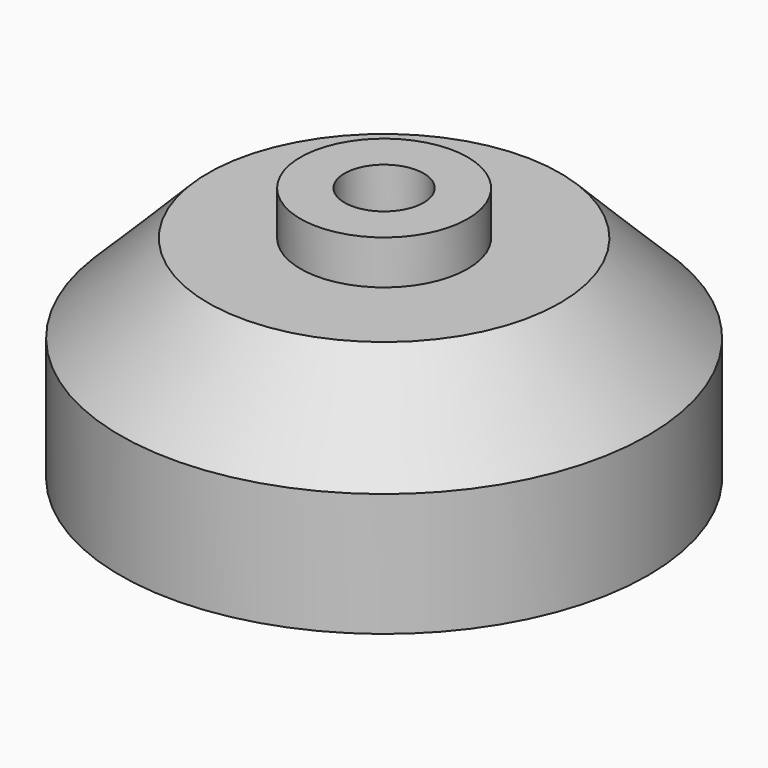
from build123d import *

# Parameters (mm, degrees)
F0_R     = 15
F0_R_2   = 3.65
F1_DEPTH = 8
F2_R     = 15
F3_DEPTH = 4
F4_SIZE  = 5
F5_R     = 4.75
F6_DEPTH = 2.5
F7_R     = 2.25
F8_DEPTH = 5
F9_DEPTH = 12


with BuildPart() as f1:
    # F0 (on Top) → F1 (new body)
    with BuildSketch(Plane.XY):
        Circle(F0_R)
        Circle(F0_R_2, mode=Mode.SUBTRACT)
    extrude(amount=F1_DEPTH)

    # F2 (on face) → F3 (join)
    with BuildSketch(Plane.XY.offset(8)):
        Circle(F2_R)
    extrude(amount=F3_DEPTH)

    # F4
    f4_edges = [f1.edges().sort_by_distance(p)[0] for p in [
        (-15, 0, 12),
    ]]
    chamfer(f4_edges, length=F4_SIZE)

    # F5 (on face) → F6 (join)
    with BuildSketch(Plane.XY.offset(12)):
        Circle(F5_R)
    extrude(amount=F6_DEPTH)

    # F7 (on face) → F8 (cut)
    with BuildSketch(Plane.XY.offset(14.5)):
        Circle(F7_R)
    extrude(amount=-F8_DEPTH, mode=Mode.SUBTRACT)

    # F0 (on Top) → F9 (cut)
    with BuildSketch(Plane.XY):
        Circle(F0_R_2)
    extrude(amount=F9_DEPTH, mode=Mode.SUBTRACT)


solid = f1.part
